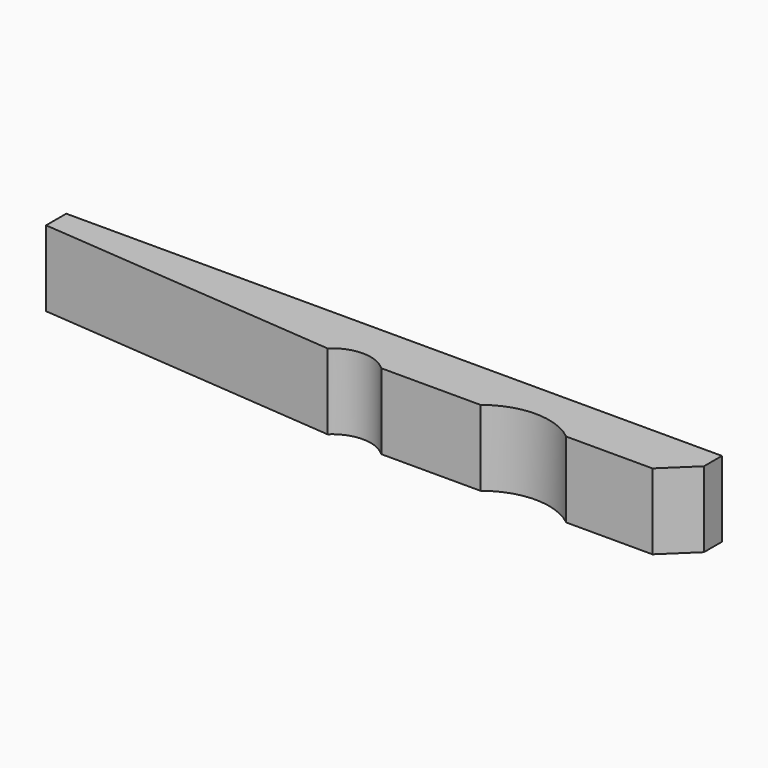
from build123d import *

# Parameters (mm, degrees)
F1_DEPTH = 4.7625


with BuildPart() as f1:
    # F0 (on Top) → F1 (new body, symmetric)
    with BuildSketch(Plane.XY):
        with BuildLine():
            Line((26.7500709742, -3.175), (37.6112871062, -3.175))
            Line((37.6112871062, -3.175), (41.275, 0.3440350712))
            Line((41.275, 0.3440350712), (41.275, 3.175))
            Line((41.275, 3.175), (-41.275, 3.175))
            Line((-41.275, 3.175), (-41.275, 0))
            Line((-41.275, 0), (-3.3075221407, -3.175))
            ThreePointArc((-3.3075221407, -3.175), (0.0796335022, -1.82683754), (3.466789145, -3.175))
            Line((3.466789145, -3.175), (15.9728042781, -3.175))
            ThreePointArc((15.9728042781, -3.175), (21.3614376262, -1.2663040308), (26.7500709742, -3.175))
        make_face()
    extrude(amount=F1_DEPTH, both=True)


solid = f1.part
